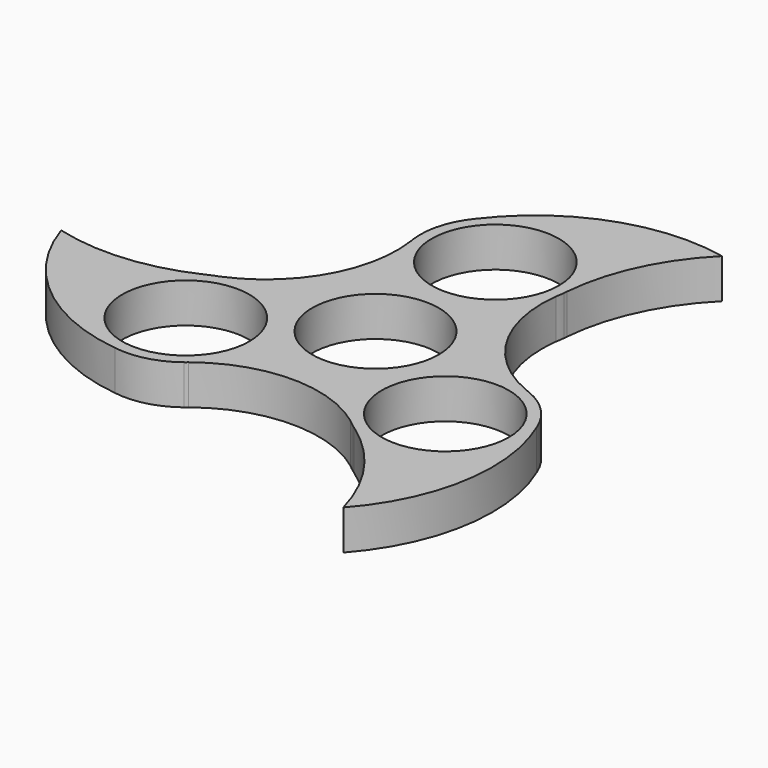
from build123d import *

# Parameters (mm, degrees)
F0_R     = 11.2
F0_R_2   = 11.15
F1_DEPTH = 7


with BuildPart() as f1:
    # F0 (on Top) → F1 (new body)
    with BuildSketch(Plane.XY):
        with BuildLine():
            ThreePointArc((23.224175, 47.27358), (4.659142, 45.869229), (-10.249732, 34.717632))
            ThreePointArc((-10.249732, 34.717632), (-12.703104, 29.987637), (-13.086544, 24.673047))
            ThreePointArc((-13.086544, 24.673047), (-13.032724, 24.346607), (-12.983563, 24.019433))
            ThreePointArc((-12.983563, 24.019433), (-15.744236, 9.331495), (-26.886944, -0.628268))
            ThreePointArc((-26.886944, -0.628268), (-27.602847, -0.918329), (-28.328006, -1.184407))
            ThreePointArc((-28.328006, -1.184407), (-28.574024, -1.303708), (-28.820976, -1.421063))
            ThreePointArc((-28.820976, -1.421063), (-40.499981, -4.578371), (-52.552209, -3.524064))
            ThreePointArc((-52.552209, -3.524064), (-42.053488, -18.899679), (-24.941485, -26.235344))
            ThreePointArc((-24.941485, -26.235344), (-19.618503, -25.99503), (-14.824213, -23.669803))
            ThreePointArc((-14.824213, -23.669803), (-14.568418, -23.459974), (-14.309658, -23.253812))
            ThreePointArc((-14.309658, -23.253812), (-0.209194, -18.300656), (13.987568, -22.970643))
            ThreePointArc((13.987568, -22.970643), (14.59672, -23.445602), (15.189729, -23.940569))
            ThreePointArc((15.189729, -23.940569), (15.416056, -24.093976), (15.641165, -24.249166))
            ThreePointArc((15.641165, -24.249166), (24.214976, -32.784827), (29.328034, -43.749516))
            ThreePointArc((29.328034, -43.749516), (37.394346, -26.96955), (35.191217, -8.482288))
            ThreePointArc((35.191217, -8.482288), (32.321608, -3.992607), (27.910757, -1.003244))
            ThreePointArc((27.910757, -1.003244), (27.601142, -0.886633), (27.293221, -0.765621))
            ThreePointArc((27.293221, -0.765621), (15.95343, 8.969161), (12.899376, 23.598911))
            ThreePointArc((12.899376, 23.598911), (13.006127, 24.363931), (13.138277, 25.124976))
            ThreePointArc((13.138277, 25.124976), (13.157967, 25.397684), (13.179812, 25.670229))
            ThreePointArc((13.179812, 25.670229), (16.285005, 37.363198), (23.224175, 47.27358))
        make_face()
        with Locations((-22.863071, -13.2)):
            Circle(F0_R, mode=Mode.SUBTRACT)
        Circle(F0_R_2, mode=Mode.SUBTRACT)
        with Locations((22.863071, -13.2)):
            Circle(F0_R, mode=Mode.SUBTRACT)
        with Locations((0, 26.4)):
            Circle(F0_R, mode=Mode.SUBTRACT)
        with BuildLine():
            ThreePointArc((-12.983563, 24.019433), (-13.032724, 24.346607), (-13.086544, 24.673047))
            ThreePointArc((-13.086544, 24.673047), (-13.039149, 24.345595), (-12.983563, 24.019433))
        make_face()
        with BuildLine():
            ThreePointArc((13.138277, 25.124976), (13.161868, 25.397387), (13.179812, 25.670229))
            ThreePointArc((13.179812, 25.670229), (13.157967, 25.397684), (13.138277, 25.124976))
        make_face()
        with BuildLine():
            ThreePointArc((-28.328006, -1.184407), (-27.602847, -0.918329), (-26.886944, -0.628268))
            ThreePointArc((-26.886944, -0.628268), (-27.615617, -0.88524), (-28.328006, -1.184407))
        make_face()
        with BuildLine():
            ThreePointArc((12.899376, 23.598911), (13.041168, 24.358446), (13.138277, 25.124976))
            ThreePointArc((13.138277, 25.124976), (13.006127, 24.363931), (12.899376, 23.598911))
        make_face()
        with BuildLine():
            ThreePointArc((-28.820976, -1.421063), (-28.574024, -1.303708), (-28.328006, -1.184407))
            ThreePointArc((-28.328006, -1.184407), (-28.575717, -1.300182), (-28.820976, -1.421063))
        make_face()
        with BuildLine():
            ThreePointArc((27.910757, -1.003244), (27.603478, -0.880563), (27.293221, -0.765621))
            ThreePointArc((27.293221, -0.765621), (27.601142, -0.886633), (27.910757, -1.003244))
        make_face()
        with BuildLine():
            ThreePointArc((-14.309658, -23.253812), (-14.568418, -23.459974), (-14.824213, -23.669803))
            ThreePointArc((-14.824213, -23.669803), (-14.564329, -23.465032), (-14.309658, -23.253812))
        make_face()
        with BuildLine():
            ThreePointArc((15.189729, -23.940569), (15.413849, -24.097206), (15.641165, -24.249166))
            ThreePointArc((15.641165, -24.249166), (15.416056, -24.093976), (15.189729, -23.940569))
        make_face()
        with BuildLine():
            ThreePointArc((15.189729, -23.940569), (14.59672, -23.445602), (13.987568, -22.970643))
            ThreePointArc((13.987568, -22.970643), (14.574449, -23.473206), (15.189729, -23.940569))
        make_face()
    extrude(amount=F1_DEPTH)


solid = f1.part
